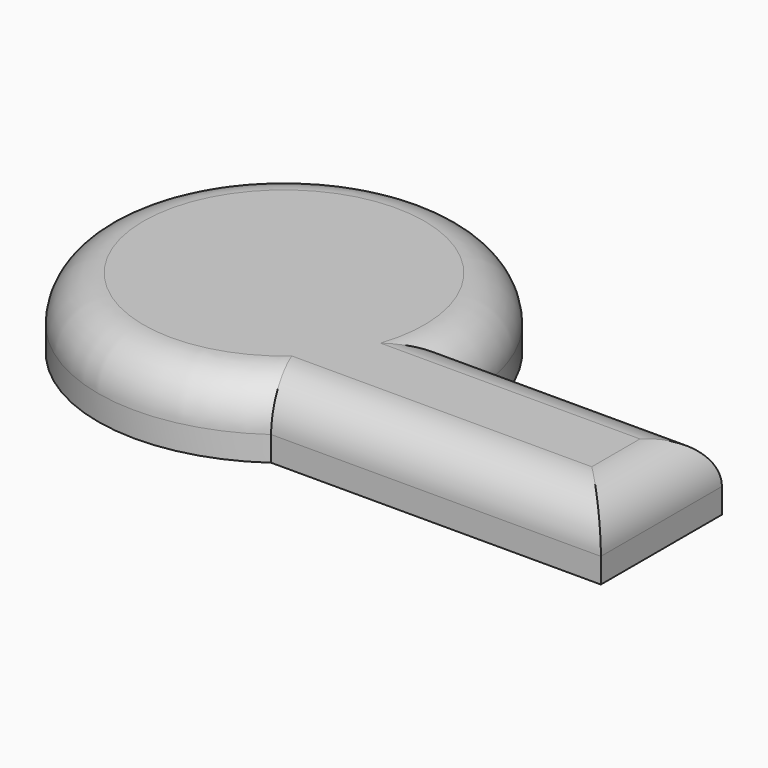
from build123d import *

# Parameters (mm, degrees)
F1_DEPTH = 25
F2_R     = 16.1752308679


with BuildPart() as f1:
    # F0 (on Top) → F1 (new body)
    with BuildSketch(Plane.XY):
        with BuildLine():
            Line((155.6041836739, 0), (66.094889761, 0))
            ThreePointArc((66.094889761, 0), (58.777489451, -30.2281522154), (38.4455150616, -53.7631548941))
            Line((38.4455150616, -53.7631548941), (155.6041836739, -53.7631548941))
            Line((155.6041836739, -53.7631548941), (155.6041836739, 0))
        make_face()
        with BuildLine():
            ThreePointArc((38.4455150616, -53.7631548941), (58.777489451, -30.2281522154), (66.094889761, 0))
            Line((66.094889761, 0), (0, 0))
            Line((0, 0), (0, -53.7631548941))
            Line((0, -53.7631548941), (38.4455150616, -53.7631548941))
        make_face()
        with BuildLine():
            Line((0, 0), (66.094889761, 0))
            ThreePointArc((66.094889761, 0), (-58.777489451, 30.2281522154), (38.4455150616, -53.7631548941))
            Line((38.4455150616, -53.7631548941), (0, -53.7631548941))
            Line((0, -53.7631548941), (0, 0))
        make_face()
    extrude(amount=F1_DEPTH)

    # F2
    f2_edges = [f1.edges().sort_by_distance(p)[0] for p in [
        (-58.777489, 30.228152, 25),
        (155.604184, -26.881577, 25),
        (110.849537, 0, 25),
        (97.024849, -53.763155, 25),
    ]]
    fillet(f2_edges, radius=F2_R)


solid = f1.part
